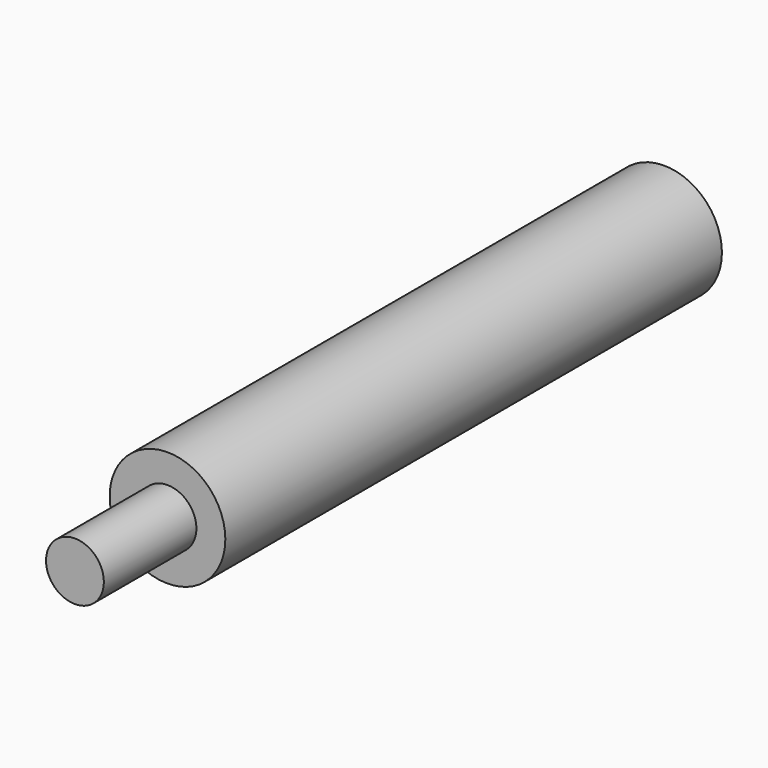
from build123d import *

# Parameters (mm, degrees)
F0_R           = 6.35
F1_DEPTH       = 93.5482
F2_R           = 7.62
F2_R_2         = 3.175
F3_DEPTH       = 12.7
F5_D           = 5.5118
F5_DEPTH       = 50.8
F5_CBORE_D     = 12.7
F5_CBORE_DEPTH = 12.7
F5_TIP         = 1.65591178


with BuildPart() as f1:
    # F0 (on Front) → F1 (new body)
    with BuildSketch(Plane.XZ):
        Circle(F0_R)
    extrude(amount=F1_DEPTH)

    # F2 (on face) → F3 (cut)
    with BuildSketch(Plane.XZ.offset(93.5482)):
        Circle(F2_R)
        Circle(F2_R_2, mode=Mode.SUBTRACT)
    extrude(amount=-F3_DEPTH, mode=Mode.SUBTRACT)

    # F5
    with Locations(Plane(origin=(0, 0, 0), x_dir=(-1, 0, 0), z_dir=(0, 1, 0))):
        with Locations((0, 0)):
            CounterBoreHole(F5_D / 2, F5_CBORE_D / 2, F5_CBORE_DEPTH, depth=F5_DEPTH)
            with Locations((0, 0, -(F5_DEPTH + F5_TIP / 2))):  # 118° drill point
                Cone(0, F5_D / 2, F5_TIP, mode=Mode.SUBTRACT)


solid = f1.part
